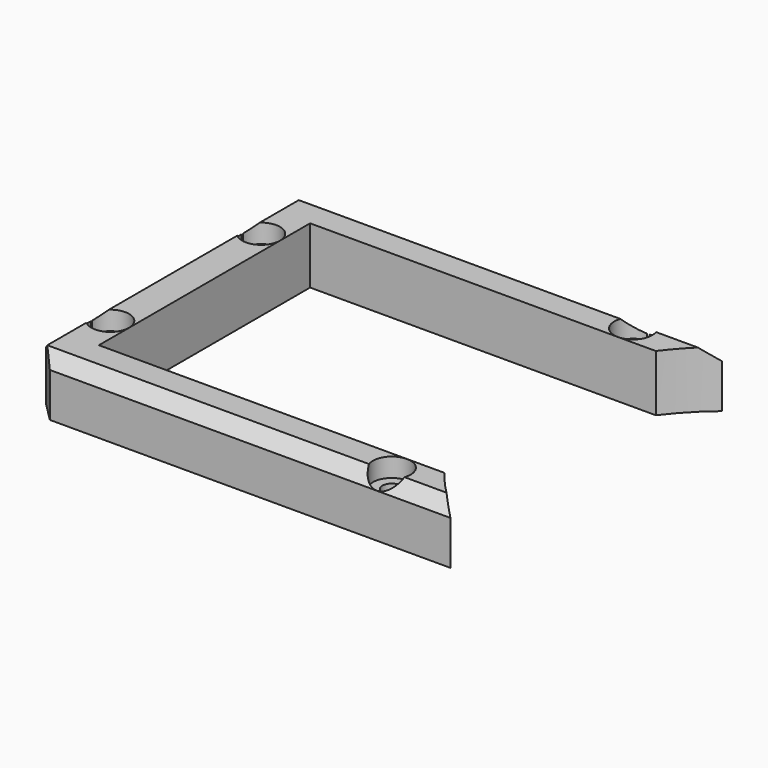
from build123d import *

# Parameters (mm, degrees)
CYLINDER1792_R         = 35
CYLINDER1792_DEPTH     = 32
CYLINDER1789_R         = 3
CYLINDER1789_DEPTH     = 3
CYLINDER1790_R         = 3
CYLINDER1790_DEPTH     = 3
CYLINDER1791_R         = 3
CYLINDER1791_DEPTH     = 3
CYLINDER1788_R         = 3
CYLINDER1788_DEPTH     = 3
CYLINDER1785_R         = 1.5
CYLINDER1785_DEPTH     = 60
CYLINDER1786_R         = 1.5
CYLINDER1786_DEPTH     = 60
CYLINDER1787_R         = 1.5
CYLINDER1787_DEPTH     = 60
CYLINDER1784_R         = 1.5
CYLINDER1784_DEPTH     = 60
BOX710_W               = 42
BOX710_H               = 64
BOX710_DEPTH           = 50
BOX709_W               = 54
BOX709_H               = 68
BOX709_DEPTH           = 9
CHAMFER059_SIZE        = 3
CHAMFER060_SIZE        = 2
CHAMFER061_SIZE        = 1
CUT521_PLACEMENT_ANGLE = 90
CUT525_PLACEMENT_ANGLE = 180


with BuildPart() as obj1:
    # Cylinder1792 → Cylinder1792 (new body)
    with BuildSketch(Plane.XY.offset(-3)):
        Circle(CYLINDER1792_R)
    extrude(amount=CYLINDER1792_DEPTH)


with BuildPart() as obj2:
    # Cylinder1789 → Cylinder1789 (new body)
    with BuildSketch(Plane(origin=(-24, 73, -80), x_dir=(1, 0, 0), z_dir=(0, 0, 1))):
        Circle(CYLINDER1789_R)
    extrude(amount=CYLINDER1789_DEPTH)


with BuildPart() as obj3:
    # Cylinder1790 → Cylinder1790 (new body)
    with BuildSketch(Plane(origin=(-15, 125, -80), x_dir=(1, 0, 0), z_dir=(0, 0, 1))):
        Circle(CYLINDER1790_R)
    extrude(amount=CYLINDER1790_DEPTH)


with BuildPart() as obj4:
    # Cylinder1791 → Cylinder1791 (new body)
    with BuildSketch(Plane(origin=(15, 125, -80), x_dir=(1, 0, 0), z_dir=(0, 0, 1))):
        Circle(CYLINDER1791_R)
    extrude(amount=CYLINDER1791_DEPTH)


with BuildPart() as compound888:
    # Cylinder1788 → Cylinder1788 (new body)
    with BuildSketch(Plane(origin=(24, 73, -80), x_dir=(1, 0, 0), z_dir=(0, 0, 1))):
        Circle(CYLINDER1788_R)
    extrude(amount=CYLINDER1788_DEPTH)

    # Compound888: union obj2, obj3, obj4
    add(obj2.part)
    add(obj3.part)
    add(obj4.part)


with BuildPart() as compound888_1:
    # Compound888 placement: moved
    add(compound888.part.moved(Location((0, 0, 161))))


with BuildPart() as obj5:
    # Cylinder1785 → Cylinder1785 (new body)
    with BuildSketch(Plane(origin=(-24, 73, -80), x_dir=(1, 0, 0), z_dir=(0, 0, 1))):
        Circle(CYLINDER1785_R)
    extrude(amount=CYLINDER1785_DEPTH)


with BuildPart() as obj6:
    # Cylinder1786 → Cylinder1786 (new body)
    with BuildSketch(Plane(origin=(-15, 125, -80), x_dir=(1, 0, 0), z_dir=(0, 0, 1))):
        Circle(CYLINDER1786_R)
    extrude(amount=CYLINDER1786_DEPTH)


with BuildPart() as obj7:
    # Cylinder1787 → Cylinder1787 (new body)
    with BuildSketch(Plane(origin=(15, 125, -80), x_dir=(1, 0, 0), z_dir=(0, 0, 1))):
        Circle(CYLINDER1787_R)
    extrude(amount=CYLINDER1787_DEPTH)


with BuildPart() as compound887:
    # Cylinder1784 → Cylinder1784 (new body)
    with BuildSketch(Plane(origin=(24, 73, -80), x_dir=(1, 0, 0), z_dir=(0, 0, 1))):
        Circle(CYLINDER1784_R)
    extrude(amount=CYLINDER1784_DEPTH)

    # Compound887: union obj5, obj6, obj7
    add(obj5.part)
    add(obj6.part)
    add(obj7.part)


with BuildPart() as compound887_1:
    # Compound887 placement: moved
    add(compound887.part.moved(Location((0, 0, 120))))


with BuildPart() as krychle710:
    # Box710 → Box710 (new body)
    with BuildSketch(Plane(origin=(-21, 58, 38), x_dir=(1, 0, 0), z_dir=(0, 0, 1))):
        with Locations((21, 32)):
            Rectangle(BOX710_W, BOX710_H)
    extrude(amount=BOX710_DEPTH)


with BuildPart() as cut525:
    # Box709 → Box709 (new body)
    with BuildSketch(Plane(origin=(-27.004408, 59.99801, 75), x_dir=(1, 0, 0), z_dir=(0, 0, 1))):
        with Locations((27, 34)):
            Rectangle(BOX709_W, BOX709_H)
    extrude(amount=BOX709_DEPTH)

    # Cut519: cut Krychle710
    add(krychle710.part, mode=Mode.SUBTRACT)

    # Chamfer059
    chamfer059_edges = [cut525.edges().sort_by_distance(p)[0] for p in [
        (-27.004408, 127.99801, 79.5),
        (26.995592, 127.99801, 79.5),
    ]]
    chamfer(chamfer059_edges, length=CHAMFER059_SIZE)

    # Chamfer060
    chamfer060_edges = [cut525.edges().sort_by_distance(p)[0] for p in [
        (-27.004408, 92.49801, 84),
        (26.995592, 92.49801, 84),
    ]]
    chamfer(chamfer060_edges, length=CHAMFER060_SIZE)

    # Chamfer061
    chamfer061_edges = [cut525.edges().sort_by_distance(p)[0] for p in [
        (-0.004408, 127.99801, 84),
    ]]
    chamfer(chamfer061_edges, length=CHAMFER061_SIZE)

    # Cut520: cut Compound887
    add(compound887_1.part, mode=Mode.SUBTRACT)

    # Cut521: cut Compound888
    add(compound888_1.part, mode=Mode.SUBTRACT)


with BuildPart() as cut525_1:
    # Cut521 placement: moved
    add(cut525.part.moved(Location((-39, 0, -59))).rotate(Axis((-39, 0, -59), (0, 0, -1)), CUT521_PLACEMENT_ANGLE))

    # Cut525: cut obj1
    add(obj1.part, mode=Mode.SUBTRACT)


with BuildPart() as cut525_2:
    # Cut525 placement: moved
    add(cut525_1.part.rotate(Axis((0, 0, 0), (0, 0, 1)), CUT525_PLACEMENT_ANGLE))


solid = cut525_2.part
